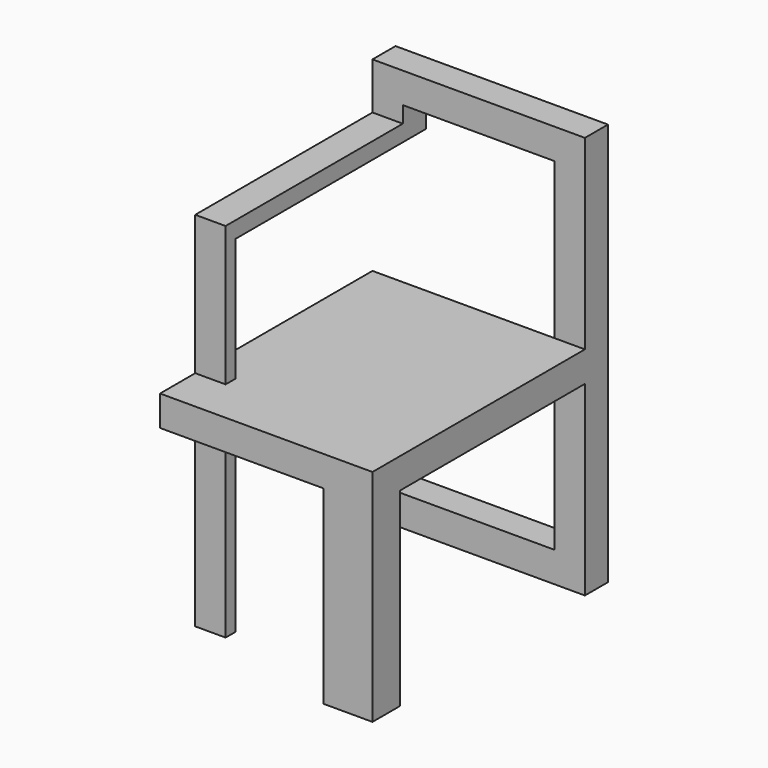
from build123d import *

# Parameters (mm, degrees)
F0_W      = 140
F0_H      = 150
F1_DEPTH  = 20
F2_DEPTH  = 25
F4_DEPTH  = 19
F5_W      = 20
F5_H      = 10.7958046891
F6_DEPTH  = 146
F7_W      = 32.1311553568
F7_H      = 22.5257221609
F8_DEPTH  = 125
F9_W      = 20
F9_H      = 8.2833381355
F10_DEPTH = 228


with BuildPart() as f1:
    # F0 (on Top) → F1 (new body)
    with BuildSketch(Plane.XY):
        with Locations((43.1068145484, 28.9318494499)):
            Rectangle(F0_W, F0_H)
    extrude(amount=F1_DEPTH)

    # F2 (add): a face of the model
    f2_faces = [f1.faces().sort_by_distance(p)[0] for p in [
        (43.1068145484, 103.9318494499, 10),
    ]]
    extrude(f2_faces, amount=F2_DEPTH)

    # F3 (on face) → F4 (join)
    with BuildSketch(Plane(origin=(0, 128.9318494499, 0), x_dir=(-1, 0, 0), z_dir=(0, 1, 0))):
        Polygon((6.8931854516, 101.1020294233), (26.8931854516, 101.1020294233), (26.8931854516, 142.6936388016), (-113.1068145484, 142.6936388016), (-113.1068145484, -122.8044226003), (43.6474412288, -122.8044226003), (43.6474412288, -102.8044226003), (-93.1068145484, -102.8044226003), (-93.1068145484, 122.6936388016), (6.8931854516, 122.6936388016), align=None)
    extrude(amount=F4_DEPTH)

    # F5 (on face) → F6 (join)
    with BuildSketch(Plane.XZ.offset(-128.9318494499)):
        with Locations((-16.8931854516, 106.4999317679)):
            Rectangle(F5_W, F5_H)
    extrude(amount=F6_DEPTH)

    # F7 (on face) → F8 (join)
    with BuildSketch(Plane(origin=(0, 0, 0), x_dir=(1, 0, 0), z_dir=(0, 0, -1))):
        with Locations((97.04123687, 34.8052894697)):
            Rectangle(F7_W, F7_H)
    extrude(amount=F8_DEPTH)

    # F9 (on face) → F10 (join)
    with BuildSketch(Plane(origin=(0, 0, 101.1020294233), x_dir=(1, 0, 0), z_dir=(0, 0, -1))):
        with Locations((-16.8931854516, 12.9264814824)):
            Rectangle(F9_W, F9_H)
    extrude(amount=F10_DEPTH)


solid = f1.part
